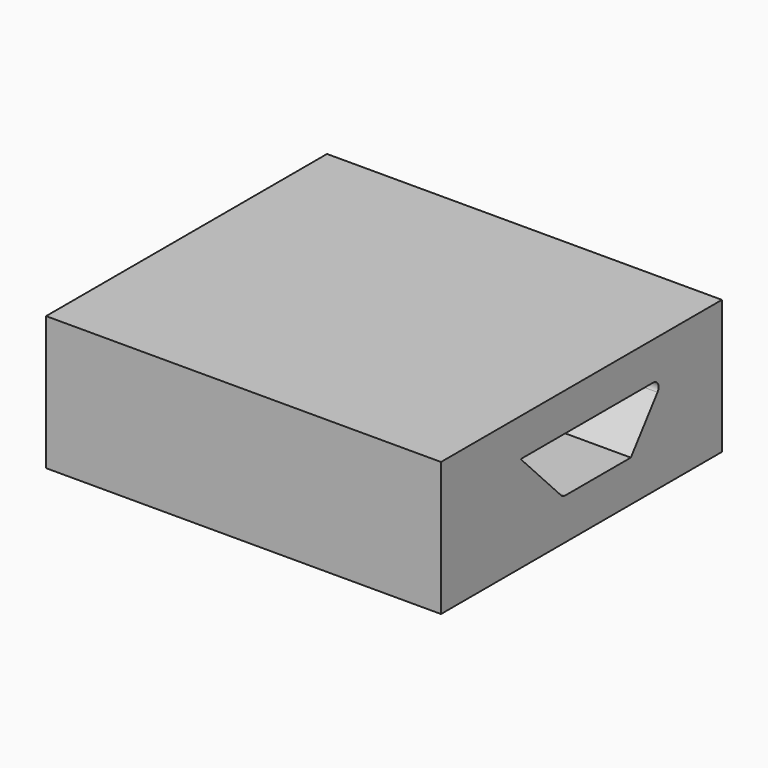
from build123d import *

# Parameters (mm, degrees)
F0_W     = 74.9250464141
F0_H     = 66.6232015938
F1_DEPTH = 25.4
F3_DEPTH = 84.074
F4_R     = 1.27


with BuildPart() as f1:
    # F0 (on Top) → F1 (new body)
    with BuildSketch(Plane.XY):
        with Locations((-4.7604274005, 6.0135135427)):
            Rectangle(F0_W, F0_H)
    extrude(amount=F1_DEPTH)

    # F2 (on face) → F3 (cut)
    with BuildSketch(Plane.YZ.offset(32.7020958066)):
        Polygon((25.5974382162, 18.2015541941), (-8.4044123068, 18.2015541941), (1.5848320909, 7.8281089664), (17.7213028073, 7.8281089664), align=None)
    extrude(amount=-F3_DEPTH, mode=Mode.SUBTRACT)

    # F4
    f4_edges = [f1.edges().sort_by_distance(p)[0] for p in [
        (-4.760427, 1.584832, 7.828109),
        (-4.760427, 25.597438, 18.201554),
    ]]
    fillet(f4_edges, radius=F4_R)


solid = f1.part
